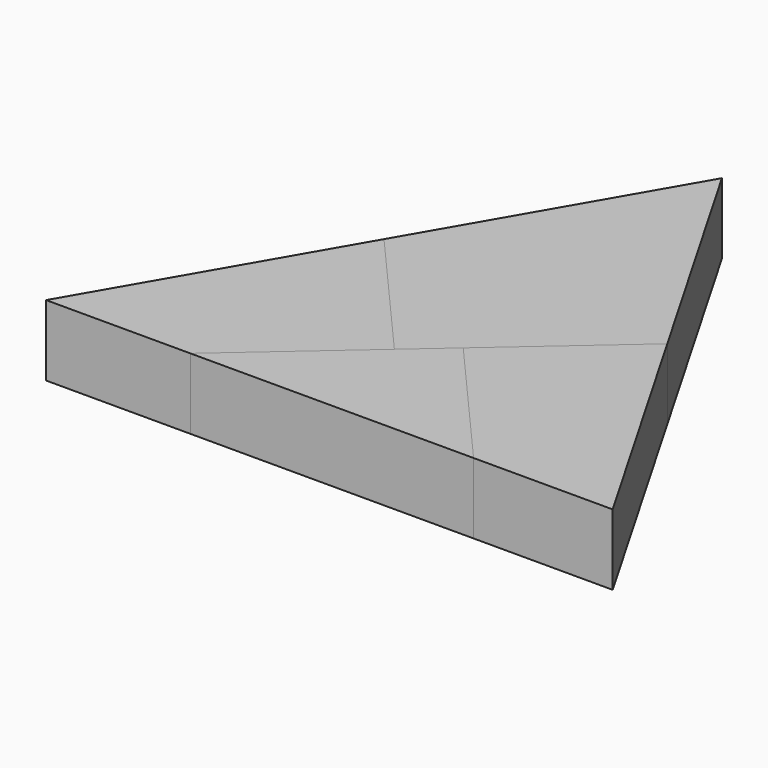
from build123d import *

# Parameters (mm, degrees)
F1_DEPTH = 6.35
F3_DEPTH = 6.35
F2_DEPTH = 6.35


with BuildPart() as f1:
    # F0 (on Top) → F1 (new body)
    with BuildSketch(Plane.XY):
        Polygon((-38.1, 21.997045), (-50.8, 0), (-37.871148, 0), (-27.101544, 9.411548), align=None)
        Polygon((-23.469604, 12.585497), (-12.471148, 0), (0, 0), (-12.7, 21.997045), align=None)
    extrude(amount=F1_DEPTH)


with BuildPart() as f3:
    # F0 (on Top) → F3 (new body)
    with BuildSketch(Plane.XY):
        Polygon((-25.4, 43.994091), (-38.1, 21.997045), (-27.101544, 9.411548), (-23.469604, 12.585497), (-12.7, 21.997045), align=None)
    extrude(amount=F3_DEPTH)


with BuildPart() as f2:
    # F0 (on Top) → F2 (new body)
    with BuildSketch(Plane.XY):
        Polygon((-27.101544, 9.411548), (-37.871148, 0), (-12.471148, 0), (-23.469604, 12.585497), align=None)
    extrude(amount=F2_DEPTH)


solid = Compound([f1.part, f3.part, f2.part])
